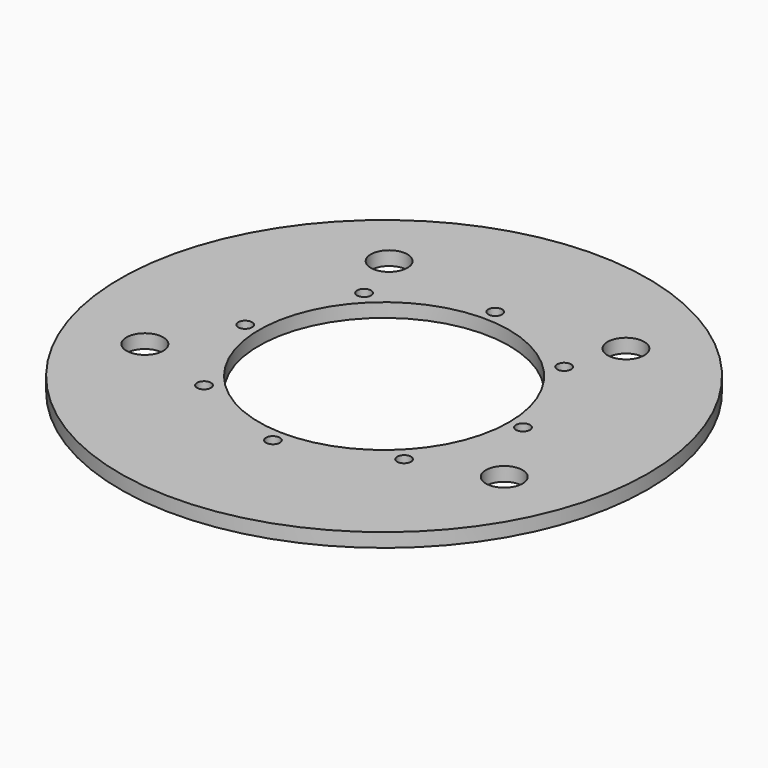
from build123d import *

# Parameters (mm, degrees)
F0_R     = 95
F0_R_2   = 6.6
F0_R_3   = 2.5
F0_R_4   = 45
F1_DEPTH = 5


with BuildPart() as f1:
    # F0 (on Top) → F1 (new body)
    with BuildSketch(Plane.XY):
        Circle(F0_R)
        with Locations((-64.671567, -26.78784)):
            Circle(F0_R_2, mode=Mode.SUBTRACT)
        with Locations((-36, -36)):
            Circle(F0_R_3, mode=Mode.SUBTRACT)
        with Locations((0, -50)):
            Circle(F0_R_3, mode=Mode.SUBTRACT)
        with Locations((36, -36)):
            Circle(F0_R_3, mode=Mode.SUBTRACT)
        with Locations((64.671567, -26.78784)):
            Circle(F0_R_2, mode=Mode.SUBTRACT)
        with Locations((-50, 0)):
            Circle(F0_R_3, mode=Mode.SUBTRACT)
        with Locations((-36, 36)):
            Circle(F0_R_3, mode=Mode.SUBTRACT)
        with Locations((-42.6133, 55.534734)):
            Circle(F0_R_2, mode=Mode.SUBTRACT)
        Circle(F0_R_4, mode=Mode.SUBTRACT)
        with Locations((36, 36)):
            Circle(F0_R_3, mode=Mode.SUBTRACT)
        with Locations((50, 0)):
            Circle(F0_R_3, mode=Mode.SUBTRACT)
        with Locations((0, 50)):
            Circle(F0_R_3, mode=Mode.SUBTRACT)
        with Locations((42.6133, 55.534734)):
            Circle(F0_R_2, mode=Mode.SUBTRACT)
    extrude(amount=F1_DEPTH)


solid = f1.part
